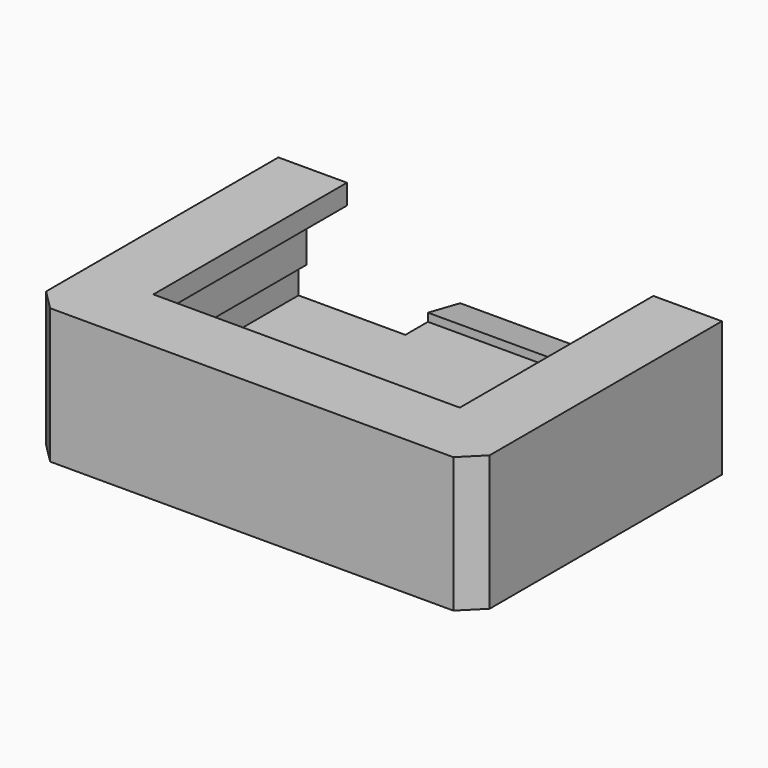
from build123d import *

# Parameters (mm, degrees)
F0_W      = 110
F0_H      = 77
F1_DEPTH  = 33.5
F2_W      = 100
F2_H      = 23.5
F4_DEPTH  = 72
F3_W      = 2
F3_H      = 8.335
F5_DEPTH  = 40
F6_W      = 76
F6_H      = 60
F7_DEPTH  = 20.9
F8_W      = 47
F8_H      = 5
F9_DEPTH  = 17
F10_W     = 47
F10_H     = 10
F11_DEPTH = 2
F13_DEPTH = 55.8
F14_SIZE  = 5


with BuildPart() as f1:
    # F0 (on Top) → F1 (new body)
    with BuildSketch(Plane.XY):
        Rectangle(F0_W, F0_H)
    extrude(amount=F1_DEPTH)

    # F2 (on face) → F4 (cut)
    with BuildSketch(Plane(origin=(0, 38.5, 0), x_dir=(-1, 0, 0), z_dir=(0, 1, 0))):
        with Locations((0, 16.75)):
            Rectangle(F2_W, F2_H)
    extrude(amount=-F4_DEPTH, mode=Mode.SUBTRACT)

    # F3 (on face) → F5 (join)
    with BuildSketch(Plane(origin=(0, 38.5, 0), x_dir=(-1, 0, 0), z_dir=(0, 1, 0))):
        with Locations((49, 16.4975)):
            Rectangle(F3_W, F3_H)
        with Locations((-49, 16.4975)):
            Rectangle(F3_W, F3_H)
    extrude(amount=-F5_DEPTH)

    # F6 (on face) → F7 (cut)
    with BuildSketch(Plane.XY.offset(33.5)):
        with Locations((0, 8.5)):
            Rectangle(F6_W, F6_H)
    extrude(amount=-F7_DEPTH, mode=Mode.SUBTRACT)

    # F8 (on face) → F9 (join)
    with BuildSketch(Plane(origin=(0, 38.5, 0), x_dir=(-1, 0, 0), z_dir=(0, 1, 0))):
        with Locations((0, 2.5)):
            Rectangle(F8_W, F8_H)
    extrude(amount=F9_DEPTH)

    # F10 (on face) → F11 (join)
    with BuildSketch(Plane.XY.offset(5)):
        with Locations((0, 50.5)):
            Rectangle(F10_W, F10_H)
    extrude(amount=F11_DEPTH)

    # F12 (on face) → F13 (cut)
    with BuildSketch(Plane(origin=(-23.5, 0, 0), x_dir=(0, -1, 0), z_dir=(-1, 0, 0))):
        Polygon((-55.5, 7), (-55.5, 5), (-45.5, 7), align=None)
    extrude(amount=-F13_DEPTH, mode=Mode.SUBTRACT)

    # F14
    f14_edges = [f1.edges().sort_by_distance(p)[0] for p in [
        (55, -38.5, 16.75),
        (-55, -38.5, 16.75),
    ]]
    chamfer(f14_edges, length=F14_SIZE)


solid = f1.part
